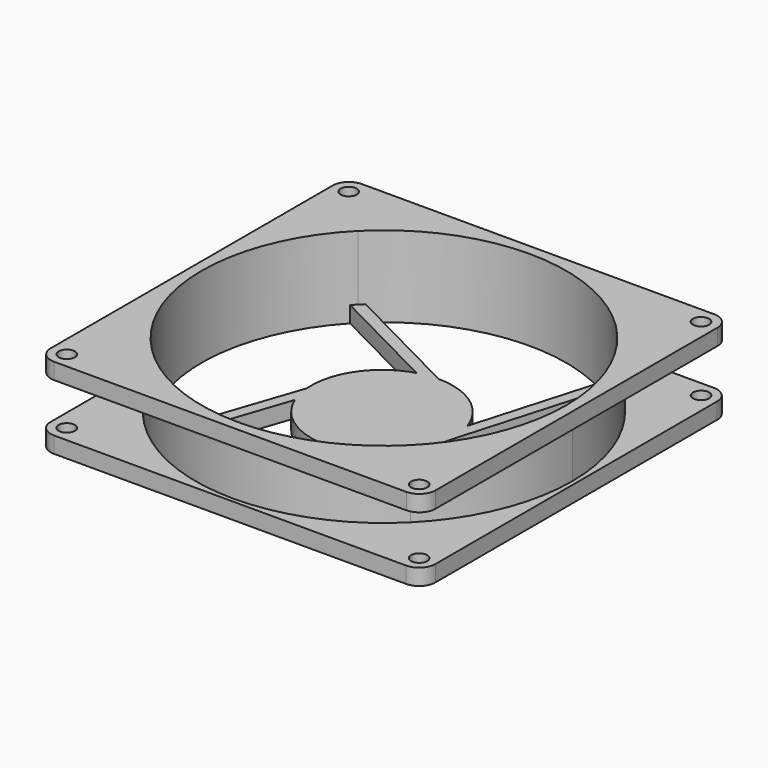
from build123d import *

# Parameters (mm, degrees)
F1_DEPTH  = 4
F3_DEPTH  = 12
F7_DEPTH  = 4
F8_DEPTH  = 25
F9_R      = 2
F10_DEPTH = 25
F12_DEPTH = 4
F13_R     = 1.5
F14_DEPTH = 3


with BuildPart() as f1:
    # F0 (on Top) → F1 (new body)
    with BuildSketch(Plane.XY):
        with BuildLine():
            Line((27.792761, 37.208434), (-59.207239, 37.208434))
            ThreePointArc((-59.207239, 37.208434), (-62.035666, 36.036861), (-63.207239, 33.208434))
            Line((-63.207239, 33.208434), (-63.207239, -53.791566))
            ThreePointArc((-63.207239, -53.791566), (-62.035666, -56.619993), (-59.207239, -57.791566))
            Line((-59.207239, -57.791566), (27.792761, -57.791566))
            ThreePointArc((27.792761, -57.791566), (30.621188, -56.619993), (31.792761, -53.791566))
            Line((31.792761, -53.791566), (31.792761, 33.208434))
            ThreePointArc((31.792761, 33.208434), (30.621188, 36.036861), (27.792761, 37.208434))
        make_face()
    extrude(amount=F1_DEPTH)

    # F2 (on face) → F3 (join)
    with BuildSketch(Plane.XY.offset(4)):
        with BuildLine():
            ThreePointArc((30.792761, -10.291566), (27.253159, 7.503214), (17.173226, 22.5889))
            Line((17.173226, 22.5889), (-15.707239, -10.291566))
            Line((-15.707239, -10.291566), (17.173226, -43.172031))
            ThreePointArc((17.173226, -43.172031), (27.253159, -28.086345), (30.792761, -10.291566))
        make_face()
        with BuildLine():
            Line((-15.707239, -10.291566), (17.173226, 22.5889))
            ThreePointArc((17.173226, 22.5889), (-15.707239, 36.208434), (-48.587704, 22.5889))
            Line((-48.587704, 22.5889), (-15.707239, -10.291566))
        make_face()
        with BuildLine():
            Line((17.173226, -43.172031), (-15.707239, -10.291566))
            Line((-15.707239, -10.291566), (-48.587704, -43.172031))
            ThreePointArc((-48.587704, -43.172031), (-15.707239, -56.791566), (17.173226, -43.172031))
        make_face()
        with BuildLine():
            Line((-48.587704, -43.172031), (-15.707239, -10.291566))
            Line((-15.707239, -10.291566), (-48.587704, 22.5889))
            ThreePointArc((-48.587704, 22.5889), (-62.207239, -10.291566), (-48.587704, -43.172031))
        make_face()
    extrude(amount=F3_DEPTH)

    # F6 (on offset) → F7 (join)
    with BuildSketch(Plane.XY.offset(16)):
        with BuildLine():
            ThreePointArc((-59.207239, 37.256276), (-62.035666, 36.084703), (-63.207239, 33.256276))
            Line((-63.207239, 33.256276), (-63.207239, -53.743724))
            ThreePointArc((-63.207239, -53.743724), (-62.035666, -56.572152), (-59.207239, -57.743724))
            Line((-59.207239, -57.743724), (27.792761, -57.743724))
            ThreePointArc((27.792761, -57.743724), (30.621188, -56.572152), (31.792761, -53.743724))
            Line((31.792761, -53.743724), (31.792761, 33.256276))
            ThreePointArc((31.792761, 33.256276), (30.621188, 36.084703), (27.792761, 37.256276))
            Line((27.792761, 37.256276), (-59.207239, 37.256276))
        make_face()
    extrude(amount=F7_DEPTH)

    # F4 (on face) → F8 (cut)
    with BuildSketch(Plane(origin=(0, 0, 0), x_dir=(1, 0, 0), z_dir=(0, 0, -1))):
        with BuildLine():
            ThreePointArc((16.112566, 42.111371), (-15.707239, 55.291566), (-47.527044, 42.111371))
            Line((-47.527044, 42.111371), (-15.707239, 10.291566))
            Line((-15.707239, 10.291566), (16.112566, 42.111371))
        make_face()
        with BuildLine():
            Line((-15.707239, 10.291566), (-47.527044, 42.111371))
            ThreePointArc((-47.527044, 42.111371), (-60.707239, 10.291566), (-47.527044, -21.528239))
            Line((-47.527044, -21.528239), (-15.707239, 10.291566))
        make_face()
        with BuildLine():
            Line((16.112566, 42.111371), (-15.707239, 10.291566))
            Line((-15.707239, 10.291566), (16.112566, -21.528239))
            ThreePointArc((16.112566, -21.528239), (25.86734, -6.929189), (29.292761, 10.291566))
            ThreePointArc((29.292761, 10.291566), (25.86734, 27.51232), (16.112566, 42.111371))
        make_face()
        with BuildLine():
            Line((16.112566, -21.528239), (-15.707239, 10.291566))
            Line((-15.707239, 10.291566), (-47.527044, -21.528239))
            ThreePointArc((-47.527044, -21.528239), (-15.707239, -34.708434), (16.112566, -21.528239))
        make_face()
    extrude(amount=-F8_DEPTH, mode=Mode.SUBTRACT)

    # F9 (on face) → F10 (cut)
    with BuildSketch(Plane(origin=(0, 0, 0), x_dir=(1, 0, 0), z_dir=(0, 0, -1))):
        with Locations((27.792761, 53.791566)):
            Circle(F9_R)
        with Locations((27.792761, -33.208434)):
            Circle(F9_R)
        with Locations((-59.207239, 53.791566)):
            Circle(F9_R)
        with Locations((-59.207239, -33.208434)):
            Circle(F9_R)
    extrude(amount=-F10_DEPTH, mode=Mode.SUBTRACT)

    # F11 (on Top) → F12 (join)
    with BuildSketch(Plane.XY):
        with BuildLine():
            ThreePointArc((-11.075309, -27.358951), (-7.059758, -25.616863), (-3.602133, -22.932771))
            Line((-3.602133, -22.932771), (-15.977767, -10.559668))
            Line((-15.977767, -10.559668), (-28.343116, -22.94305))
            ThreePointArc((-28.343116, -22.94305), (-22.668837, -26.729999), (-15.977767, -28.059668))
            ThreePointArc((-15.977767, -28.059668), (-13.501626, -27.883603), (-11.075309, -27.358951))
        make_face()
        with BuildLine():
            Line((-15.977767, -10.559668), (-3.602133, -22.932771))
            ThreePointArc((-3.602133, -22.932771), (-0.097014, -17.911653), (1.463653, -11.990353))
            ThreePointArc((1.463653, -11.990353), (1.507582, -11.27561), (1.522233, -10.559668))
            ThreePointArc((1.522233, -10.559668), (1.284893, -7.687292), (0.579313, -4.892827))
            ThreePointArc((0.579313, -4.892827), (-1.131734, -1.294395), (-3.612418, 1.823714))
            Line((-3.612418, 1.823714), (-15.977767, -10.559668))
        make_face()
        with BuildLine():
            Line((-28.343116, -22.94305), (-15.977767, -10.559668))
            Line((-15.977767, -10.559668), (-28.353402, 1.813434))
            ThreePointArc((-28.353402, 1.813434), (-32.406411, -4.530599), (-33.419188, -11.990353))
            ThreePointArc((-33.419188, -11.990353), (-32.996271, -14.636499), (-32.174304, -17.187051))
            ThreePointArc((-32.174304, -17.187051), (-30.545822, -20.256152), (-28.343116, -22.94305))
        make_face()
        with BuildLine():
            Line((-28.353402, 1.813434), (-15.977767, -10.559668))
            Line((-15.977767, -10.559668), (-3.612418, 1.823714))
            ThreePointArc((-3.612418, 1.823714), (-9.286698, 5.610662), (-15.977767, 6.940332))
            ThreePointArc((-15.977767, 6.940332), (-18.453909, 6.764267), (-20.880226, 6.239615))
            ThreePointArc((-20.880226, 6.239615), (-24.895777, 4.497526), (-28.353402, 1.813434))
        make_face()
        with BuildLine():
            Line((17.595724, -42.005187), (-11.075309, -27.358951))
            ThreePointArc((-11.075309, -27.358951), (-13.501626, -27.883603), (-15.977767, -28.059668))
            Line((-15.977767, -28.059668), (15.474621, -44.126725))
            Line((15.474621, -44.126725), (17.595724, -42.005187))
        make_face()
        with BuildLine():
            ThreePointArc((1.522233, -10.559668), (1.507582, -11.27561), (1.463653, -11.990353))
            Line((1.463653, -11.990353), (12.343387, 25.688259))
            Line((12.343387, 25.688259), (9.920419, 27.457222))
            Line((9.920419, 27.457222), (0.579313, -4.892827))
            ThreePointArc((0.579313, -4.892827), (1.284893, -7.687292), (1.522233, -10.559668))
        make_face()
        with BuildLine():
            ThreePointArc((15.474621, -44.126725), (16.552472, -43.083252), (17.595724, -42.005187))
            Line((17.595724, -42.005187), (15.474621, -44.126725))
        make_face()
        with BuildLine():
            Line((9.920419, 27.457222), (12.343387, 25.688259))
            ThreePointArc((12.343387, 25.688259), (11.146328, 26.592498), (9.920419, 27.457222))
        make_face()
        with BuildLine():
            Line((-49.551259, 20.885851), (-20.880226, 6.239615))
            ThreePointArc((-20.880226, 6.239615), (-18.453909, 6.764267), (-15.977767, 6.940332))
            Line((-15.977767, 6.940332), (-47.430156, 23.007388))
            Line((-47.430156, 23.007388), (-49.551259, 20.885851))
        make_face()
        with BuildLine():
            ThreePointArc((-32.174304, -17.187051), (-32.996271, -14.636499), (-33.419188, -11.990353))
            Line((-33.419188, -11.990353), (-45.001782, -46.247293))
            Line((-45.001782, -46.247293), (-42.613842, -48.063262))
            Line((-42.613842, -48.063262), (-32.174304, -17.187051))
        make_face()
        with BuildLine():
            ThreePointArc((-47.430156, 23.007388), (-48.508007, 21.963916), (-49.551259, 20.885851))
            Line((-49.551259, 20.885851), (-47.430156, 23.007388))
        make_face()
        with BuildLine():
            Line((-42.613842, -48.063262), (-45.001782, -46.247293))
            ThreePointArc((-45.001782, -46.247293), (-43.82262, -47.17475), (-42.613842, -48.063262))
        make_face()
    extrude(amount=F12_DEPTH)

    # F13 (on face) → F14 (cut)
    with BuildSketch(Plane(origin=(0, 0, 0), x_dir=(1, 0, 0), z_dir=(0, 0, -1))):
        with Locations((28.893428, 47.575925)):
            Circle(F13_R)
        with Locations((-53.599834, 55.02338)):
            Circle(F13_R)
        with Locations((-60.483862, 47.575925)):
            Circle(F13_R)
        with Locations((27.792761, -27.104519)):
            Circle(F13_R)
        with Locations((-59.352773, -27.413523)):
            Circle(F13_R)
        with Locations((-52.714072, -34.026481)):
            Circle(F13_R)
        with Locations((20.607447, -33.641927)):
            Circle(F13_R)
    extrude(amount=-F14_DEPTH, mode=Mode.SUBTRACT)


solid = f1.part
